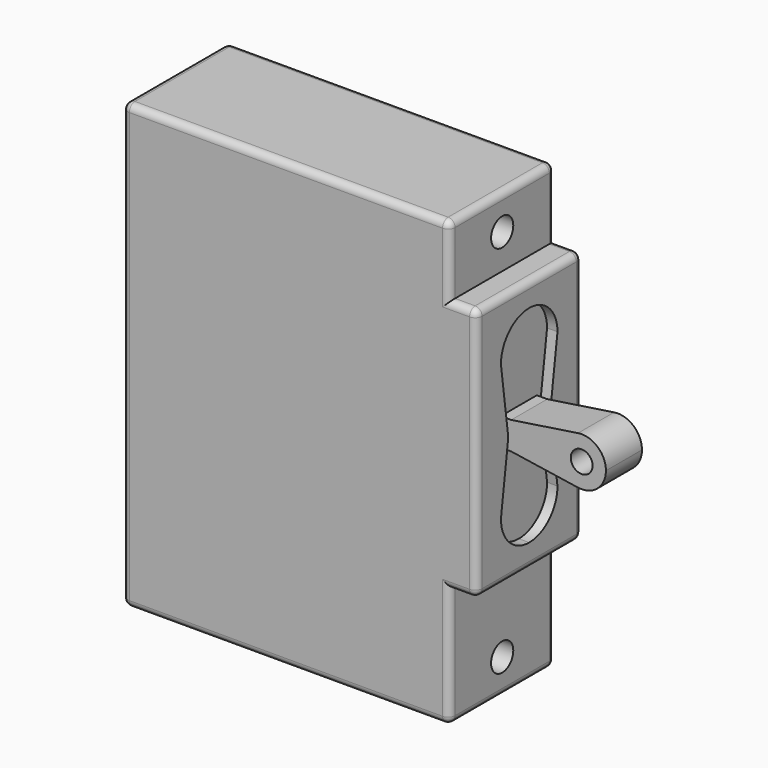
from build123d import *

# Parameters (mm, degrees)
F0_W      = 47.2
F0_H      = 64
F1_DEPTH  = 9.5
F2_W      = 19
F2_H      = 36.6
F3_DEPTH  = 3.9
F5_DEPTH  = 1.5
F6_R      = 3.15
F7_DEPTH  = 8
F8_R      = 2
F9_DEPTH  = 4
F10_R     = 1.575
F11_DEPTH = 3.25
F12_R     = 1


with BuildPart() as f1:
    # F0 (on Front) → F1 (new body, symmetric)
    with BuildSketch(Plane.XZ):
        Rectangle(F0_W, F0_H)
    extrude(amount=F1_DEPTH, both=True)

    # F2 (on face) → F3 (join)
    with BuildSketch(Plane.YZ.offset(23.6)):
        with Locations((0, 3.7)):
            Rectangle(F2_W, F2_H)
    extrude(amount=F3_DEPTH)

    # F4 (on face) → F5 (cut)
    with BuildSketch(Plane.YZ.offset(27.5)):
        with BuildLine():
            ThreePointArc((3.865939, 3.030682), (3.820938, 3.7), (3.865939, 4.369318))
            Line((3.865939, 4.369318), (5.099388, 13.500612))
            ThreePointArc((5.099388, 13.500612), (3.605812, 17.106424), (0, 18.6))
            ThreePointArc((0, 18.6), (-3.605812, 17.106424), (-5.099388, 13.500612))
            Line((-5.099388, 13.500612), (-3.865939, 4.369318))
            ThreePointArc((-3.865939, 4.369318), (-3.820938, 3.7), (-3.865939, 3.030682))
            Line((-3.865939, 3.030682), (-5.099388, -6.100612))
            ThreePointArc((-5.099388, -6.100612), (-3.605812, -9.706424), (0, -11.2))
            ThreePointArc((0, -11.2), (3.605812, -9.706424), (5.099388, -6.100612))
            Line((5.099388, -6.100612), (3.865939, 3.030682))
        make_face()
    extrude(amount=-F5_DEPTH, mode=Mode.SUBTRACT)

    # F6 (on face) → F7 (cut)
    with BuildSketch(Plane(origin=(-23.6, 0, 0), x_dir=(0, -1, 0), z_dir=(-1, 0, 0))):
        with Locations((0, 26)):
            Circle(F6_R)
        with Locations((0, -26)):
            Circle(F6_R)
    extrude(amount=-F7_DEPTH, mode=Mode.SUBTRACT)

    # F8 (on face) → F9 (cut)
    with BuildSketch(Plane.YZ.offset(23.6)):
        with Locations((0, 27)):
            Circle(F8_R)
        with Locations((0, -27)):
            Circle(F8_R)
    extrude(amount=-F9_DEPTH, mode=Mode.SUBTRACT)

    # F10 (on Front) → F11 (join, symmetric)
    with BuildSketch(Plane.XZ):
        with BuildLine():
            ThreePointArc((37.146019, 0.239445), (39.952111, 1.046329), (41.17, 3.7))
            ThreePointArc((41.17, 3.7), (39.952111, 6.353671), (37.146019, 7.160555))
            ThreePointArc((37.146019, 7.160555), (34.17, 3.7), (37.146019, 0.239445))
        make_face()
        with Locations((37.67, 3.7)):
            Circle(F10_R, mode=Mode.SUBTRACT)
        with BuildLine():
            ThreePointArc((37.146019, 0.239445), (34.17, 3.7), (37.146019, 7.160555))
            Line((37.146019, 7.160555), (27.5, 5.7))
            Line((27.5, 5.7), (25.5, 5.7))
            Line((25.5, 5.7), (25.5, 1.7))
            Line((25.5, 1.7), (27.5, 1.7))
            Line((27.5, 1.7), (37.146019, 0.239445))
        make_face()
    extrude(amount=F11_DEPTH, both=True)

    # F12
    f12_edges = [f1.edges().sort_by_distance(p)[0] for p in [
        (0, 9.5, -32),
        (23.6, 9.5, -23.3),
        (25.55, 9.5, -14.6),
        (27.5, 9.5, 3.7),
        (25.55, 9.5, 22),
        (23.6, 9.5, 27),
        (0, 9.5, 32),
        (-23.6, 9.5, 0),
        (23.6, 0, 32),
        (-23.6, 0, 32),
        (0, -9.5, 32),
        (0, -9.5, -32),
        (23.6, -9.5, -23.3),
        (25.55, -9.5, -14.6),
        (27.5, -9.5, 3.7),
        (25.55, -9.5, 22),
        (23.6, -9.5, 27),
        (-23.6, -9.5, 0),
        (27.5, 0, -14.6),
        (27.5, 0, 22),
        (23.6, 0, -32),
        (-23.6, 0, -32),
    ]]
    fillet(f12_edges, radius=F12_R)


solid = f1.part
